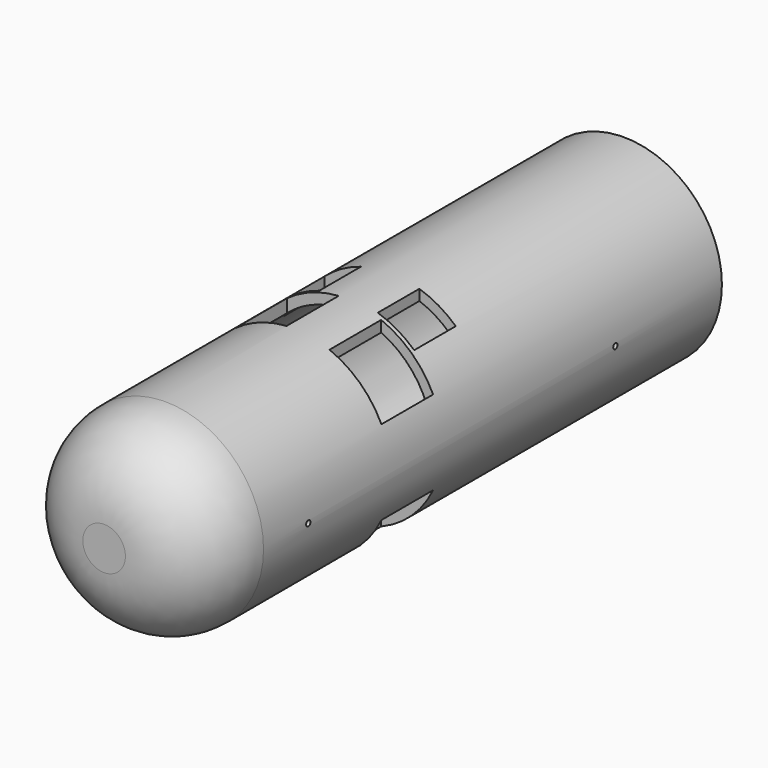
from build123d import *

# Parameters (mm, degrees)
F0_R     = 38.320105
F1_DEPTH = 127
F2_R     = 30
F3_T     = -4
F4_R     = 1.067549
F5_DEPTH = 50
F4_R_2   = 1.060399
F6_DEPTH = 50
F7_W     = 14.223997
F7_H     = 20.320001
F8_DEPTH = 50
F7_W_2   = 20.294623
F7_H_2   = 25.249181
F7_W_3   = 20.192685
F7_H_3   = 25.460336
F9_DEPTH = 50


with BuildPart() as f1:
    # F0 (on Front) → F1 (new body, symmetric)
    with BuildSketch(Plane.XZ):
        Circle(F0_R)
    extrude(amount=F1_DEPTH, both=True)

    # F2
    f2_edges = [f1.edges().sort_by_distance(p)[0] for p in [
        (-38.320105, -127, 0),
    ]]
    fillet(f2_edges, radius=F2_R)

    # F3
    f3_openings = [f1.faces().sort_by_distance(p)[0] for p in [
        (0, 127, 0),
    ]]
    offset(amount=F3_T, openings=f3_openings)

    # F4 (on Right) → F5 (cut, symmetric)
    with BuildSketch(Plane.YZ):
        with Locations((-75.115211, 0)):
            Circle(F4_R)
    extrude(amount=F5_DEPTH, both=True, mode=Mode.SUBTRACT)

    # F4 (on Right) → F6 (cut, symmetric)
    with BuildSketch(Plane.YZ):
        with Locations((74.953705, 0)):
            Circle(F4_R_2)
    extrude(amount=F6_DEPTH, both=True, mode=Mode.SUBTRACT)

    # F7 (on Top) → F8 (cut, symmetric)
    with BuildSketch(Plane.XY):
        with Locations((18.796, 2.285999)):
            Rectangle(F7_W, F7_H)
        with Locations((-18.288002, 2.285999)):
            Rectangle(F7_W, F7_H)
    extrude(amount=F8_DEPTH, both=True, mode=Mode.SUBTRACT)

    # F7 (on Top) → F9 (cut, symmetric)
    with BuildSketch(Plane.XY):
        with Locations((24.450503, -22.103406)):
            Rectangle(F7_W_2, F7_H_2)
        with Locations((-12.618189, -21.969469)):
            Rectangle(F7_W_3, F7_H_3)
    extrude(amount=F9_DEPTH, both=True, mode=Mode.SUBTRACT)


solid = f1.part
